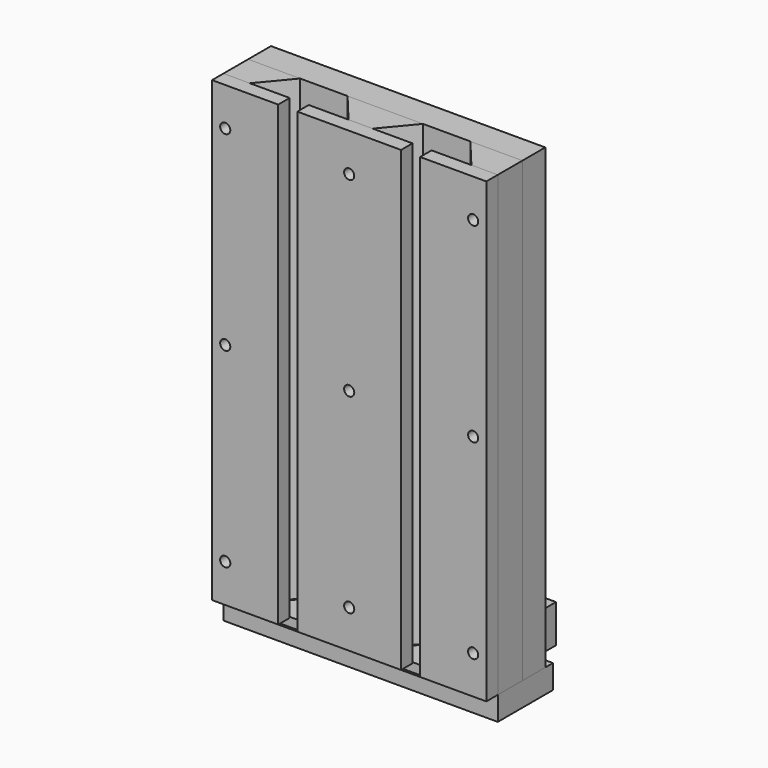
from build123d import *

# Parameters (mm, degrees)
F1_DEPTH  = 5.969
F2_W      = 182.626
F2_H      = 45.8851
F3_DEPTH  = 9.525
F4_W      = 47.2567
F4_H      = 5.715
F4_W_2    = 15.9893
F5_DEPTH  = 25.4
F4_W_3    = 63.246
F6_W      = 18.542
F6_H      = 45.8851
F6_W_2    = 18.034
F7_DEPTH  = 6.35
F8_W      = 182.626
F8_H      = 19.05
F9_DEPTH  = 304.8
F11_DEPTH = 63.246
F13_DEPTH = 63.246
F15_DEPTH = 304.8
F16_W     = 44.069
F16_H     = 304.8
F16_R     = 3.3782
F17_DEPTH = 9.525
F16_W_2   = 69.088


with BuildPart() as f1:
    # F0 (on Top) → F1 (new body)
    with BuildSketch(Plane.XY):
        Polygon((0, 0), (-15.7353, -18.8976), (47.0027, -18.8976), (31.2674, 0), align=None)
    extrude(amount=F1_DEPTH)


with BuildPart() as f1b:
    # F0 (on Top) → F1, piece 2 (new body)
    with BuildSketch(Plane.XY):
        Polygon((81.788, 0), (66.0527, -18.8976), (128.7907, -18.8976), (113.0554, 0), align=None)
    extrude(amount=F1_DEPTH)


with BuildPart() as f3:
    # F2 (on face) → F3 (new body)
    with BuildSketch(Plane(origin=(0, 0, 0), x_dir=(1, 0, 0), z_dir=(0, 0, -1))):
        with Locations((56.5277, -2.45745)):
            Rectangle(F2_W, F2_H)
    extrude(amount=F3_DEPTH)

    # F6 (on face) → F7 (join)
    with BuildSketch(Plane.XY):
        with Locations((-25.5143, 2.45745)):
            Rectangle(F6_W, F6_H)
        with Locations((138.5697, 2.45745)):
            Rectangle(F6_W, F6_H)
        with Locations((56.5277, 2.45745)):
            Rectangle(F6_W_2, F6_H)
    extrude(amount=F7_DEPTH)


with BuildPart() as f5:
    # F4 (on face) → F5 (new body)
    with BuildSketch(Plane(origin=(0, 0, 0), x_dir=(-1, 0, 0), z_dir=(0, 1, 0))):
        with Locations((-7.63905, 2.8575)):
            Rectangle(F4_W, F4_H)
        with Locations((-39.26205, 2.8575)):
            Rectangle(F4_W_2, F4_H)
    extrude(amount=F5_DEPTH)

    # F10 (on face) → F11 (join, through all)
    with BuildSketch(Plane(origin=(-15.9893, 0, 0), x_dir=(0, -1, 0), z_dir=(-1, 0, 0))):
        Polygon((-38.735, 25.4), (-51.435, 25.4), (-51.435, 0), (-38.735, 0), (-25.4, 0), (-25.4, 5.715), (-38.735, 5.715), align=None)
    extrude(amount=-F11_DEPTH)


with BuildPart() as f5b:
    # F4 (on face) → F5, piece 2 (new body)
    with BuildSketch(Plane(origin=(0, 0, 0), x_dir=(-1, 0, 0), z_dir=(0, 1, 0))):
        with Locations((-97.4217, 2.8575)):
            Rectangle(F4_W_3, F4_H)
    extrude(amount=F5_DEPTH)

    # F12 (on face) → F13 (join, through all)
    with BuildSketch(Plane.YZ.offset(129.0447)):
        Polygon((38.735, 25.4), (38.735, 5.715), (25.4, 5.715), (25.4, 0), (38.735, 0), (51.435, 0), (51.435, 25.4), align=None)
    extrude(amount=-F13_DEPTH)


with BuildPart() as f9:
    # F8 (on face) → F9 (new body)
    with BuildSketch(Plane.XY.offset(6.35)):
        with Locations((56.5277, 9.525)):
            Rectangle(F8_W, F8_H)
    extrude(amount=F9_DEPTH)


with BuildPart() as f15:
    # F14 (on face) → F15 (new body)
    with BuildSketch(Plane.XY.offset(6.35)):
        Polygon((-0.1652623251, 0), (-34.7853, 0), (-34.7853, -20.4851), (-17.2224121235, -20.4851), align=None)
    extrude(amount=F15_DEPTH)


with BuildPart() as f15b:
    # F14 (on face) → F15, piece 2 (new body)
    with BuildSketch(Plane.XY.offset(6.35)):
        Polygon((56.5277, 0), (31.4326623251, 0), (48.4898121235, -20.4851), (56.5277, -20.4851), (64.5655878765, -20.4851), (81.6227376749, 0), align=None)
    extrude(amount=F15_DEPTH)


with BuildPart() as f15c:
    # F14 (on face) → F15, piece 3 (new body)
    with BuildSketch(Plane.XY.offset(6.35)):
        Polygon((113.2206623251, 0), (130.2778121235, -20.4851), (147.8407, -20.4851), (147.8407, 0), align=None)
    extrude(amount=F15_DEPTH)


with BuildPart() as f17:
    # F16 (on face) → F17 (new body)
    with BuildSketch(Plane.XZ.offset(20.4851)):
        with Locations((-12.7508, 158.75)):
            Rectangle(F16_W, F16_H)
        with Locations((-26.0038560617, 31.75)):
            Circle(F16_R, mode=Mode.SUBTRACT)
        with Locations((-26.0038560617, 158.75)):
            Circle(F16_R, mode=Mode.SUBTRACT)
        with Locations((-26.0038560617, 285.75)):
            Circle(F16_R, mode=Mode.SUBTRACT)
    extrude(amount=F17_DEPTH)


with BuildPart() as f17b:
    # F16 (on face) → F17, piece 2 (new body)
    with BuildSketch(Plane.XZ.offset(20.4851)):
        with Locations((56.5277, 158.75)):
            Rectangle(F16_W_2, F16_H)
        with Locations((56.5277, 31.75)):
            Circle(F16_R, mode=Mode.SUBTRACT)
        with Locations((56.5277, 158.75)):
            Circle(F16_R, mode=Mode.SUBTRACT)
        with Locations((56.5277, 285.75)):
            Circle(F16_R, mode=Mode.SUBTRACT)
    extrude(amount=F17_DEPTH)


with BuildPart() as f17c:
    # F16 (on face) → F17, piece 3 (new body)
    with BuildSketch(Plane.XZ.offset(20.4851)):
        with Locations((125.8062, 158.75)):
            Rectangle(F16_W, F16_H)
        with Locations((139.0592560617, 31.75)):
            Circle(F16_R, mode=Mode.SUBTRACT)
        with Locations((139.0592560617, 158.75)):
            Circle(F16_R, mode=Mode.SUBTRACT)
        with Locations((139.0592560617, 285.75)):
            Circle(F16_R, mode=Mode.SUBTRACT)
    extrude(amount=F17_DEPTH)


solid = Compound([f1.part, f1b.part, f3.part, f5.part, f5b.part, f9.part, f15.part, f15b.part, f15c.part, f17.part, f17b.part, f17c.part])
